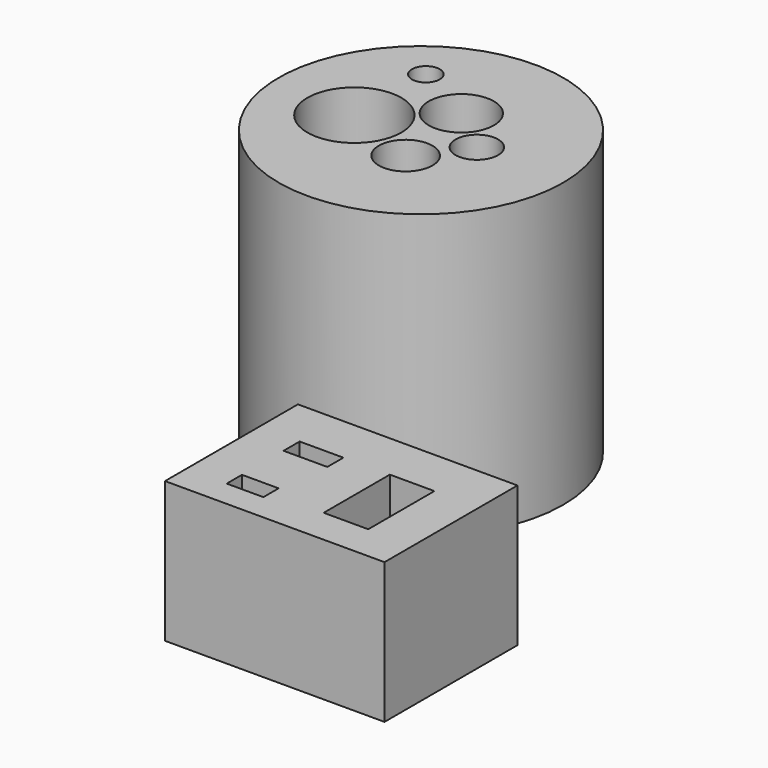
from build123d import *

# Parameters (mm, degrees)
F0_R     = 46.6564123897
F1_DEPTH = 93.02102
F2_R     = 15.4199057957
F2_R_2   = 8.799658794
F2_R_3   = 10.6869364606
F2_R_4   = 6.9814277781
F2_R_5   = 4.5474322162
F3_DEPTH = 93.02202
F4_W     = 72.0044821501
F4_H     = 54.4962286949
F5_DEPTH = 46.13302
F6_W     = 12.0218303055
F6_H     = 6.253413856
F6_W_2   = 14.3514992669
F6_H_2   = 6.5944101661
F6_W_3   = 7.8991614282
F6_H_3   = 6.537348032
F6_W_4   = 7.3091201484
F6_H_4   = 8.640371263
F7_DEPTH = 46.13402


with BuildPart() as f1:
    # F0 (on Top) → F1 (new body)
    with BuildSketch(Plane.XY):
        with Locations((-27.3374225944, 56.1584420502)):
            Circle(F0_R)
    extrude(amount=F1_DEPTH)

    # F2 (on face) → F3 (cut, through all)
    with BuildSketch(Plane.XY.offset(93.02102)):
        with Locations((-45.8699427545, 52.0102418959)):
            Circle(F2_R)
        with Locations((-21.5983781964, 42.7080392838)):
            Circle(F2_R_2)
        with Locations((-25.1191779971, 69.9246972799)):
            Circle(F2_R_3)
        with Locations((-10.2453297004, 57.7087067068)):
            Circle(F2_R_4)
        with Locations((-45.7294657826, 81.1484307051)):
            Circle(F2_R_5)
    extrude(amount=-F3_DEPTH, mode=Mode.SUBTRACT)


with BuildPart() as f5:
    # F4 (on Top) → F5 (new body)
    with BuildSketch(Plane.XY):
        with Locations((22.7820724249, -39.1899049282)):
            Rectangle(F4_W, F4_H)
    extrude(amount=F5_DEPTH)

    # F6 (on face) → F7 (cut, through all)
    with BuildSketch(Plane.XY.offset(46.13302)):
        with Locations((6.0109151527, -54.5318871737)):
            Rectangle(F6_W, F6_H)
        with Locations((7.1757496335, -31.0550415888)):
            Rectangle(F6_W_2, F6_H_2)
        with Locations((33.4615428001, -44.4978475571)):
            Rectangle(F6_W_3, F6_H_3)
        with Locations((40.4756423086, -31.991712749)):
            Rectangle(F6_W_4, F6_H_4)
        Polygon((29.511962086, -47.7665215731), (29.511962086, -54.7868199646), (44.1302023828, -54.7868199646), (44.1302023828, -36.3118983805), (36.8210822344, -36.3118983805), (36.8210822344, -27.6715271175), (29.511962086, -27.6715271175), (29.511962086, -41.2291735411), (37.4111235142, -41.2291735411), (37.4111235142, -47.7665215731), align=None)
    extrude(amount=-F7_DEPTH, mode=Mode.SUBTRACT)


solid = Compound([f1.part, f5.part])
